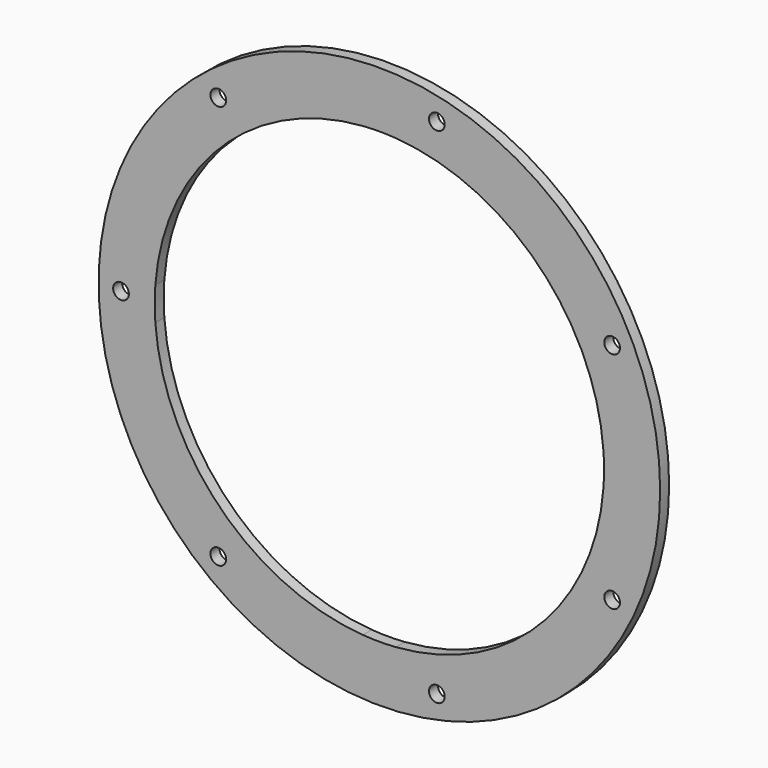
from build123d import *

# Parameters (mm, degrees)
F0_R     = 125
F0_R_2   = 3.5
F1_DEPTH = 5


with BuildPart() as f1:
    # F0 (on Front) → F1 (new body)
    with BuildSketch(Plane.XZ):
        Circle(F0_R)
        with Locations((-71.701327, -89.91062)):
            Circle(F0_R_2, mode=Mode.SUBTRACT)
        with Locations((25.589907, -112.11671)):
            Circle(F0_R_2, mode=Mode.SUBTRACT)
        with Locations((103.61142, -49.89663)):
            Circle(F0_R_2, mode=Mode.SUBTRACT)
        with Locations((-115, 0)):
            Circle(F0_R_2, mode=Mode.SUBTRACT)
        with Locations((-71.701327, 89.91062)):
            Circle(F0_R_2, mode=Mode.SUBTRACT)
        with BuildLine():
            ThreePointArc((-99.728162, 7.368421), (-70.710678, 70.710678), (-7.368421, 99.728162))
            ThreePointArc((-7.368421, 99.728162), (0, 100), (7.368421, 99.728162))
            ThreePointArc((7.368421, 99.728162), (70.710678, 70.710678), (99.728162, 7.368421))
            ThreePointArc((99.728162, 7.368421), (99.932017, 3.686717), (100, 0))
            ThreePointArc((100, 0), (99.932017, -3.686717), (99.728162, -7.368421))
            ThreePointArc((99.728162, -7.368421), (70.710678, -70.710678), (7.368421, -99.728162))
            ThreePointArc((7.368421, -99.728162), (0, -100), (-7.368421, -99.728162))
            ThreePointArc((-7.368421, -99.728162), (-70.710678, -70.710678), (-99.728162, -7.368421))
            ThreePointArc((-99.728162, -7.368421), (-100, 0), (-99.728162, 7.368421))
        make_face(mode=Mode.SUBTRACT)
        with Locations((103.61142, 49.89663)):
            Circle(F0_R_2, mode=Mode.SUBTRACT)
        with Locations((25.589907, 112.11671)):
            Circle(F0_R_2, mode=Mode.SUBTRACT)
    extrude(amount=F1_DEPTH)


solid = f1.part
